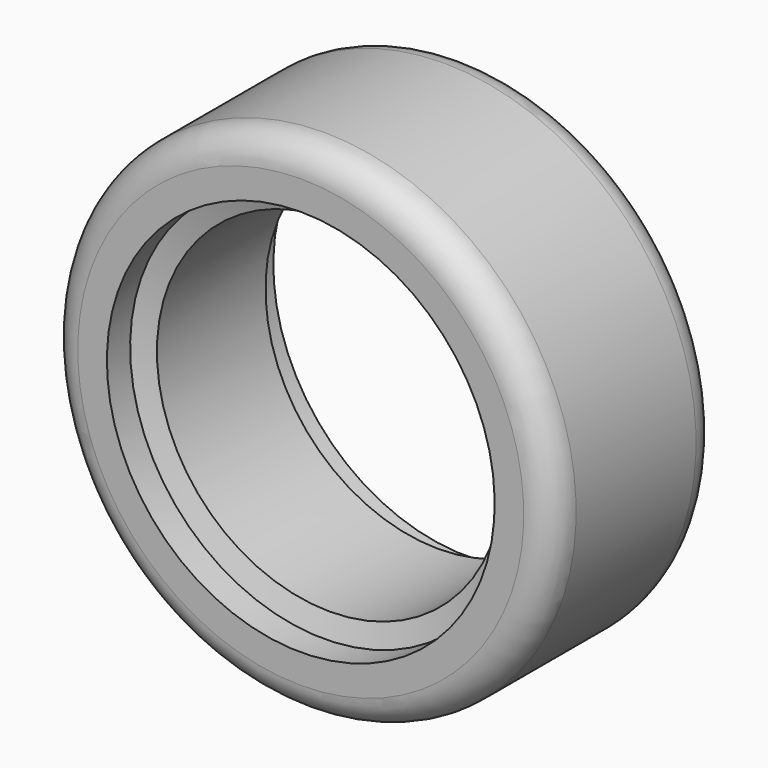
from build123d import *

# Parameters (mm, degrees)
F2_R = 38.1


with BuildPart() as f1:
    # F0 (on Right) → F1 (revolve)
    with BuildSketch(Plane.YZ):
        Polygon((-41.1457871523, 476.3912863712), (-41.1457871523, 425.5912863712), (-3.0457871523, 425.5912863712), (6.2179709348, 397.9314095477), (184.0179709348, 397.9314095477), (193.281729022, 425.5912863712), (231.381729022, 425.5912863712), (231.381729022, 476.3912863712), (231.381729022, 501.7912863712), (-41.1457871523, 501.7912863712), align=None)
    revolve(axis=Axis((0, -252.9666202111, 171.5912863712), (0, -1, 0)))

    # F2
    f2_edges = [f1.edges().sort_by_distance(p)[0] for p in [
        (0, -41.145787, -158.608714),
        (0, 231.381729, -158.608714),
    ]]
    fillet(f2_edges, radius=F2_R)


solid = f1.part
